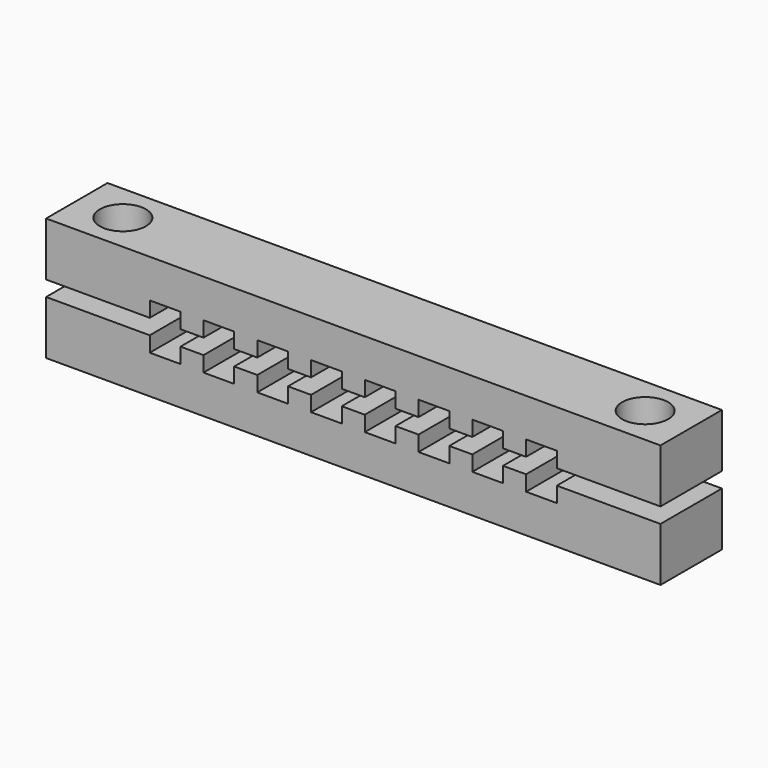
from build123d import *

# Parameters (mm, degrees)
F1_DEPTH         = 10
F3_D             = 3
F3_DEPTH         = 15
F3_CBORE_D       = 6
F3_CBORE_DEPTH   = 5
F3_TIP           = 0.9012909285
F3_2_D           = 3
F3_2_DEPTH       = 15
F3_2_CBORE_D     = 6
F3_2_CBORE_DEPTH = 5
F3_2_TIP         = 0.9012909285


with BuildPart() as f1:
    # F0 (on Front) → F1 (new body)
    with BuildSketch(Plane.XZ):
        Polygon((0, 9), (13.5, 9), (13.5, 11), (17.5, 11), (17.5, 9), (20.5, 9), (20.5, 11), (24.5, 11), (24.5, 9), (27.5, 9), (27.5, 10.9958891446), (31.5, 10.9958891446), (31.5, 9), (34.5, 9), (34.5, 10.9885419408), (38.5, 10.9885419408), (38.5, 9), (41.5, 9), (41.5, 10.9958891446), (45.5, 10.9958891446), (45.5, 9), (48.5, 9), (48.5, 11), (52.5, 11), (52.5, 9), (55.5, 9), (55.5, 10.9961733073), (59.5, 10.9961733073), (59.5, 9), (62.5, 9), (62.5, 11), (66.5, 11), (66.5, 9), (80, 9), (80, 16), (0, 16), align=None)
    extrude(amount=F1_DEPTH)

    # F3
    with Locations(Plane.XY.offset(16)):
        with Locations((6, -5), (74, -5)):
            CounterBoreHole(F3_D / 2, F3_CBORE_D / 2, F3_CBORE_DEPTH, depth=F3_DEPTH)
            with Locations((0, 0, -(F3_DEPTH + F3_TIP / 2))):  # 118° drill point
                Cone(0, F3_D / 2, F3_TIP, mode=Mode.SUBTRACT)


with BuildPart() as f1b:
    # F0 (on Front) → F1, piece 2 (new body)
    with BuildSketch(Plane.XZ):
        Polygon((0, 7), (0, 0), (79.936705776, 0), (80, 0), (80, 7), (66.5, 7), (66.5, 5), (62.5, 5), (62.5, 7), (59.5, 7), (59.5, 5.0038266927), (55.5, 5.0038266927), (55.5, 7), (52.5, 7), (52.5, 5), (48.5, 5), (48.5, 7), (45.5, 7), (45.5, 5.0041108554), (41.5, 5.0041108554), (41.5, 7), (38.5, 7), (38.5, 5.0114580592), (34.5, 5.0114580592), (34.5, 7), (31.5, 7), (31.5, 5.0041108554), (27.5, 5.0041108554), (27.5, 7), (24.5, 7), (24.5, 5), (20.5, 5), (20.5, 7), (17.5, 7), (17.5, 5), (13.5, 5), (13.5, 7), align=None)
    extrude(amount=F1_DEPTH)

    # F3#2
    with Locations(Plane.XY.offset(16)):
        with Locations((6, -5), (74, -5)):
            CounterBoreHole(F3_2_D / 2, F3_2_CBORE_D / 2, F3_2_CBORE_DEPTH, depth=F3_2_DEPTH)
            with Locations((0, 0, -(F3_2_DEPTH + F3_2_TIP / 2))):  # 118° drill point
                Cone(0, F3_2_D / 2, F3_2_TIP, mode=Mode.SUBTRACT)


solid = Compound([f1.part, f1b.part])
